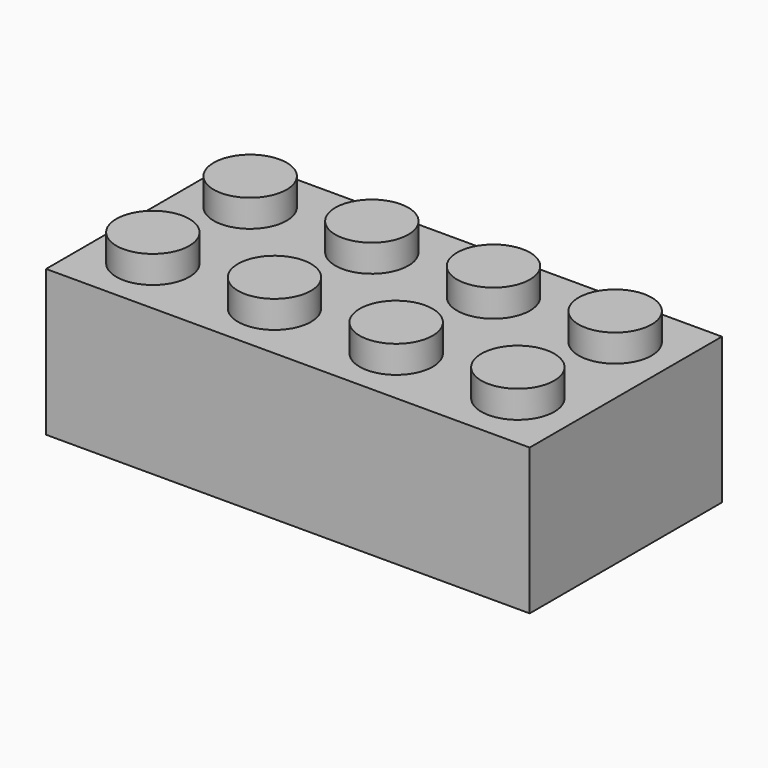
from build123d import *

# Parameters (mm, degrees)
F0_W     = 807.72
F0_H     = 401.32
F1_DEPTH = 243.84
F3_R     = 60.96
F4_DEPTH = 45.72
F2_W     = 746.76
F2_H     = 340.36
F5_DEPTH = 213.36
F6_R     = 82.55
F6_R_2   = 60.96
F7_DEPTH = 213.36


with BuildPart() as f1:
    # F0 (on Top) → F1 (new body)
    with BuildSketch(Plane.XY):
        with Locations((23.436593, -12.636174)):
            Rectangle(F0_W, F0_H)
    extrude(amount=F1_DEPTH)

    # F3 (on face) → F4 (join)
    with BuildSketch(Plane.XY.offset(243.84)):
        with Locations((-281.363407, 88.963826)):
            Circle(F3_R)
        with Locations((-78.163407, 88.963826)):
            Circle(F3_R)
        with Locations((125.036593, 88.963826)):
            Circle(F3_R)
        with Locations((328.236593, 88.963826)):
            Circle(F3_R)
        with Locations((-281.363407, -114.236174)):
            Circle(F3_R)
        with Locations((-78.163407, -114.236174)):
            Circle(F3_R)
        with Locations((125.036593, -114.236174)):
            Circle(F3_R)
        with Locations((328.236593, -114.236174)):
            Circle(F3_R)
    extrude(amount=F4_DEPTH)

    # F2 (on face) → F5 (cut)
    with BuildSketch(Plane(origin=(0, 0, 0), x_dir=(1, 0, 0), z_dir=(0, 0, -1))):
        with Locations((23.436593, 12.636174)):
            Rectangle(F2_W, F2_H)
    extrude(amount=-F5_DEPTH, mode=Mode.SUBTRACT)

    # F6 (on face) → F7 (join)
    with BuildSketch(Plane(origin=(0, 0, 213.36), x_dir=(1, 0, 0), z_dir=(0, 0, -1))):
        with Locations((23.436593, 12.636174)):
            Circle(F6_R)
        with Locations((23.436593, 12.636174)):
            Circle(F6_R_2, mode=Mode.SUBTRACT)
        with Locations((226.636593, 12.636174)):
            Circle(F6_R)
        with Locations((226.636593, 12.636174)):
            Circle(F6_R_2, mode=Mode.SUBTRACT)
        with Locations((-179.763407, 12.636174)):
            Circle(F6_R)
        with Locations((-179.763407, 12.636174)):
            Circle(F6_R_2, mode=Mode.SUBTRACT)
    extrude(amount=F7_DEPTH)


solid = f1.part
